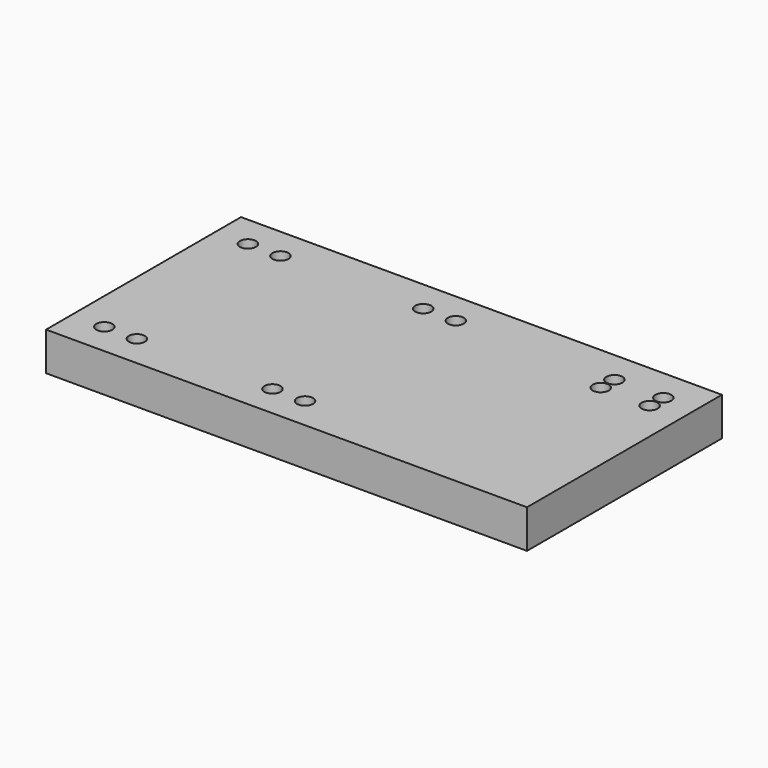
from build123d import *

# Parameters (mm, degrees)
F0_W     = 150.0124
F0_H     = 75.9968
F0_R     = 2.5019
F1_DEPTH = 11.9888


with BuildPart() as f1:
    # F0 (on Top) → F1 (new body)
    with BuildSketch(Plane.XY):
        Rectangle(F0_W, F0_H)
        with Locations((-64.8462, -27.9908)):
            Circle(F0_R, mode=Mode.SUBTRACT)
        with Locations((-54.6862, -27.9908)):
            Circle(F0_R, mode=Mode.SUBTRACT)
        with Locations((-12.395915, -27.9908)):
            Circle(F0_R, mode=Mode.SUBTRACT)
        with Locations((-2.235915, -27.9908)):
            Circle(F0_R, mode=Mode.SUBTRACT)
        with Locations((-64.8462, 27.9908)):
            Circle(F0_R, mode=Mode.SUBTRACT)
        with Locations((-54.6862, 27.9908)):
            Circle(F0_R, mode=Mode.SUBTRACT)
        with Locations((-10.16, 27.9908)):
            Circle(F0_R, mode=Mode.SUBTRACT)
        with Locations((0, 27.9908)):
            Circle(F0_R, mode=Mode.SUBTRACT)
        with Locations((49.6062, 22.5044)):
            Circle(F0_R, mode=Mode.SUBTRACT)
        with Locations((49.6062, 27.8384)):
            Circle(F0_R, mode=Mode.SUBTRACT)
        with Locations((64.8462, 22.5044)):
            Circle(F0_R, mode=Mode.SUBTRACT)
        with Locations((64.8462, 27.8384)):
            Circle(F0_R, mode=Mode.SUBTRACT)
    extrude(amount=F1_DEPTH)


solid = f1.part
